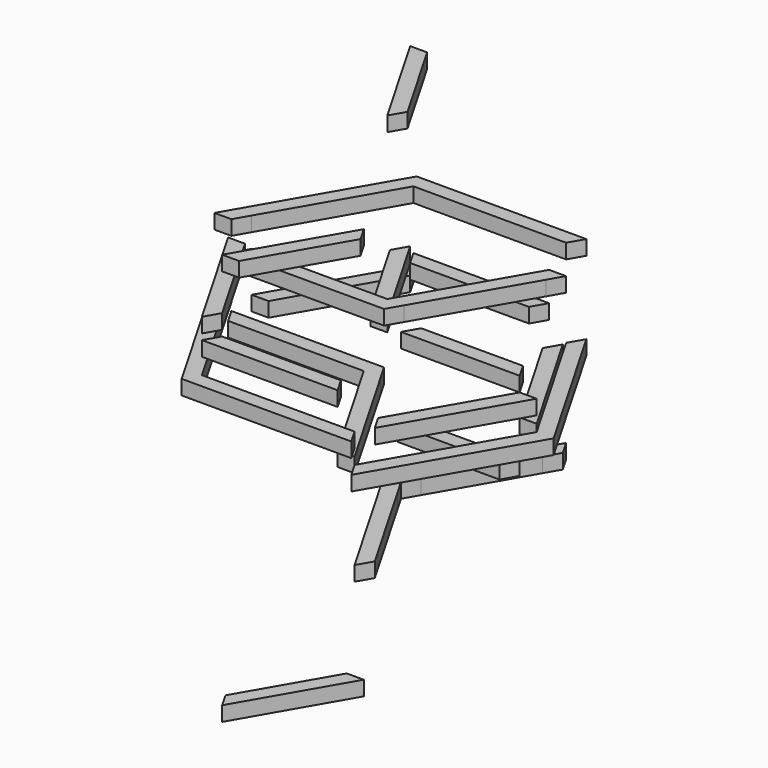
from build123d import *

# Parameters (mm, degrees)
F1_DEPTH = 1
F2_DEPTH = 1
F3_DEPTH = 1
F4_DEPTH = 1
F5_DEPTH = 1
F6_DEPTH = 1
F7_DEPTH = 1
F8_DEPTH = 1


with BuildPart() as f1:
    # F0 (on Top) → F1 (new body)
    with BuildSketch(Plane.XY):
        Polygon((-5.1961524227, 9), (0, 9), (0, 10), (-5.7735026919, 10), (-11.5470053838, 0), (-10.3923048454, 0), (-9.8149545762, 1), align=None)
        Polygon((0, 10), (0, 9), (4.0414518843, 9), (5.1961524227, 9), (5.7735026919, 10), align=None)
    extrude(amount=F1_DEPTH)


with BuildPart() as f2:
    # F0 (on Top) → F2 (new body)
    with BuildSketch(Plane.XY):
        Polygon((-9.237604307, 0), (-1.1547005384, 0), (-1.7320508076, 1), (-8.6602540378, 1), align=None)
        Polygon((-1.1547005384, 0), (0, 0), (-0.5773502692, 1), (-1.7320508076, 1), align=None)
        Polygon((-0.5773502692, 1), (0, 0), (0, 2), align=None)
        Polygon((0, 2), (0, 0), (0.5773502692, 1), align=None)
        Polygon((3.4641016151, 8), (0, 2), (0.5773502692, 1), (4.6188021535, 8), align=None)
        Polygon((-10.3923048454, 0), (-9.237604307, 0), (-8.6602540378, 1), (-9.8149545762, 1), align=None)
        Polygon((4.0414518843, 9), (3.4641016151, 8), (4.6188021535, 8), (5.1961524227, 9), align=None)
    extrude(amount=F2_DEPTH)


with BuildPart() as f3:
    # F0 (on Top) → F3 (new body)
    with BuildSketch(Plane.XY):
        Polygon((-3.4641016151, -8), (-4.6188021535, -8), (-5.1961524227, -9), (4.0414518843, -9), (3.4641016151, -8), align=None)
    extrude(amount=F3_DEPTH)


with BuildPart() as f3b:
    # F0 (on Top) → F3, piece 2 (new body)
    with BuildSketch(Plane.XY):
        Polygon((10.3923048454, 0), (9.237604307, 0), (8.6602540378, -1), (5.1961524227, -7), (5.7735026919, -8), align=None)
    extrude(amount=F3_DEPTH)


with BuildPart() as f3c:
    # F0 (on Top) → F3, piece 3 (new body)
    with BuildSketch(Plane.XY):
        Polygon((1.7320508076, 1), (1.1547005384, 0), (9.237604307, 0), (8.6602540378, 1), align=None)
    extrude(amount=F3_DEPTH)


with BuildPart() as f3d:
    # F0 (on Top) → F3, piece 4 (new body)
    with BuildSketch(Plane.XY):
        Polygon((-4.6188021535, -8), (-0.5773502692, -1), (-1.7320508076, -1), (-5.1961524227, -7), align=None)
    extrude(amount=F3_DEPTH)


with BuildPart() as f4:
    # F0 (on Top) → F4 (new body)
    with BuildSketch(Plane.XY):
        Polygon((5.7735026919, -10), (5.1961524227, -9), (4.0414518843, -9), (-5.1961524227, -9), (-9.8149545762, -1), (-10.3923048454, 0), (-11.5470053838, 0), (-5.7735026919, -10), align=None)
    extrude(amount=F4_DEPTH)


with BuildPart() as f4b:
    # F0 (on Top) → F4, piece 2 (new body)
    with BuildSketch(Plane.XY):
        Polygon((8.6602540378, 1), (9.237604307, 0), (10.3923048454, 0), (5.7735026919, 8), (5.1961524227, 7), align=None)
    extrude(amount=F4_DEPTH)


with BuildPart() as f4c:
    # F0 (on Top) → F4, piece 3 (new body)
    with BuildSketch(Plane.XY):
        Polygon((0, 9), (0, 8), (3.4641016151, 8), (4.0414518843, 9), align=None)
        Polygon((-3.4641016151, 8), (0, 8), (0, 9), (-5.1961524227, 9), (-4.6188021535, 8), align=None)
    extrude(amount=F4_DEPTH)


with BuildPart() as f5:
    # F0 (on Top) → F5 (new body)
    with BuildSketch(Plane.XY):
        Polygon((-8.6602540378, -1), (-9.237604307, 0), (-10.3923048454, 0), (-9.8149545762, -1), align=None)
        Polygon((-1.7320508076, -1), (-1.1547005384, 0), (-9.237604307, 0), (-8.6602540378, -1), align=None)
        Polygon((-0.5773502692, -1), (0, 0), (-1.1547005384, 0), (-1.7320508076, -1), align=None)
        Polygon((0.5773502692, -1), (0, 0), (-0.5773502692, -1), (0, -2), align=None)
        Polygon((4.6188021535, -8), (0.5773502692, -1), (0, -2), (3.4641016151, -8), align=None)
        Polygon((5.1961524227, -9), (4.6188021535, -8), (3.4641016151, -8), (4.0414518843, -9), align=None)
    extrude(amount=F5_DEPTH)


with BuildPart() as f6:
    # F0 (on Top) → F6 (new body)
    with BuildSketch(Plane.XY):
        Polygon((-5.1961524227, 7), (-4.6188021535, 8), (-5.1961524227, 9), (-9.8149545762, 1), (-8.6602540378, 1), align=None)
    extrude(amount=F6_DEPTH)


with BuildPart() as f6b:
    # F0 (on Top) → F6, piece 2 (new body)
    with BuildSketch(Plane.XY):
        Polygon((-5.1961524227, -9), (-4.6188021535, -8), (-5.1961524227, -7), (-8.6602540378, -1), (-9.8149545762, -1), align=None)
    extrude(amount=F6_DEPTH)


with BuildPart() as f6c:
    # F0 (on Top) → F6, piece 3 (new body)
    with BuildSketch(Plane.XY):
        Polygon((5.1961524227, -7), (4.6188021535, -8), (5.1961524227, -9), (5.7735026919, -8), align=None)
        Polygon((1.7320508076, -1), (0.5773502692, -1), (4.6188021535, -8), (5.1961524227, -7), align=None)
        Polygon((0.5773502692, 1), (0, 0), (1.1547005384, 0), (1.7320508076, 1), align=None)
        Polygon((1.1547005384, 0), (0, 0), (0.5773502692, -1), (1.7320508076, -1), align=None)
        Polygon((4.6188021535, 8), (0.5773502692, 1), (1.7320508076, 1), (5.1961524227, 7), align=None)
        Polygon((5.1961524227, 9), (4.6188021535, 8), (5.1961524227, 7), (5.7735026919, 8), align=None)
    extrude(amount=F6_DEPTH)


with BuildPart() as f7:
    # F0 (on Top) → F7 (new body)
    with BuildSketch(Plane.XY):
        Polygon((5.7735026919, -8), (5.1961524227, -9), (5.7735026919, -10), (11.5470053838, 0), (5.7735026919, 10), (5.1961524227, 9), (5.7735026919, 8), (10.3923048454, 0), align=None)
    extrude(amount=F7_DEPTH)


with BuildPart() as f7b:
    # F0 (on Top) → F7, piece 2 (new body)
    with BuildSketch(Plane.XY):
        Polygon((-0.5773502692, 1), (0, 2), (-3.4641016151, 8), (-4.6188021535, 8), align=None)
    extrude(amount=F7_DEPTH)


with BuildPart() as f8:
    # F0 (on Top) → F8 (new body)
    with BuildSketch(Plane.XY):
        Polygon((-1.7320508076, 1), (-0.5773502692, 1), (-4.6188021535, 8), (-5.1961524227, 7), align=None)
    extrude(amount=F8_DEPTH)


with BuildPart() as f8b:
    # F0 (on Top) → F8, piece 2 (new body)
    with BuildSketch(Plane.XY):
        Polygon((0, -2), (-0.5773502692, -1), (-4.6188021535, -8), (-3.4641016151, -8), align=None)
    extrude(amount=F8_DEPTH)


with BuildPart() as f8c:
    # F0 (on Top) → F8, piece 3 (new body)
    with BuildSketch(Plane.XY):
        Polygon((9.237604307, 0), (1.1547005384, 0), (1.7320508076, -1), (8.6602540378, -1), align=None)
    extrude(amount=F8_DEPTH)


with BuildPart() as f1_1:
    # F9: moved
    add(f1.part.moved(Location((0, 0, 4))))


with BuildPart() as f7b_1:
    # F10: moved
    add(f7b.part.moved(Location((0, 0, 3))))


with BuildPart() as f2_1:
    # F11: moved
    add(f2.part.moved(Location((0, 0, 2))))


with BuildPart() as f8_1:
    # F12: moved
    add(f8.part.moved(Location((0, 0, 1))))


with BuildPart() as f6_1:
    # F13: moved
    add(f6.part.moved(Location((0, 0, -0.75))))


with BuildPart() as f7_1:
    # F14: moved
    add(f7.part.moved(Location((0, 0, -2))))


with BuildPart() as f5_1:
    # F15: moved
    add(f5.part.moved(Location((0, 0, -1))))


with BuildPart() as f8c_1:
    # F16: moved
    add(f8c.part.moved(Location((0, 0, -4))))


with BuildPart() as f8b_1:
    # F17: moved
    add(f8b.part.moved(Location((0, 0, 7))))


with BuildPart() as f6c_1:
    # F18: moved
    add(f6c.part.moved(Location((0, 0, -8))))


with BuildPart() as f6b_1:
    # F19: moved
    add(f6b.part.moved(Location((0, 0, 3.5))))


with BuildPart() as f3c_1:
    # F20: moved
    add(f3c.part.moved(Location((0, 0, 1))))


with BuildPart() as f4b_1:
    # F21: moved
    add(f4b.part.moved(Location((0, 0, -1.5))))


with BuildPart() as f3d_1:
    # F22: moved
    add(f3d.part.moved(Location((0, 0, -20))))


with BuildPart() as f7b_2:
    # F23: moved
    add(f7b_1.part.moved(Location((0, 0, 10))))


with BuildPart() as f3_1:
    # F24: moved
    add(f3.part.moved(Location((0, 0, 2.1))))


with BuildPart() as f5_2:
    # F25: moved
    add(f5_1.part.moved(Location((0, 0, -0.5))))


solid = Compound([f3b.part, f4.part, f4c.part, f1_1.part, f2_1.part, f8_1.part, f6_1.part, f7_1.part, f8c_1.part, f8b_1.part, f6c_1.part, f6b_1.part, f3c_1.part, f4b_1.part, f3d_1.part, f7b_2.part, f3_1.part, f5_2.part])
